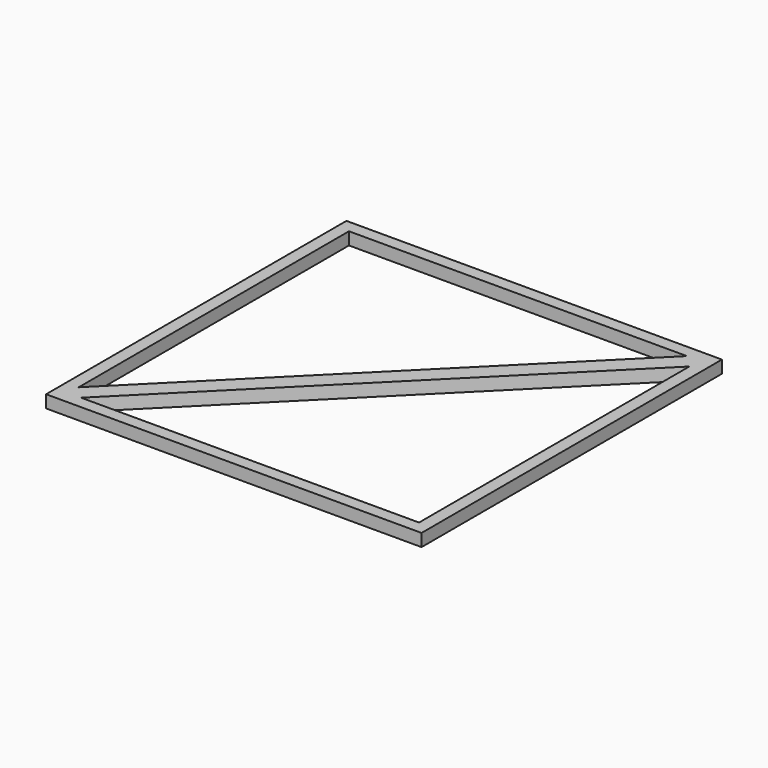
from build123d import *

# Parameters (mm, degrees)
F0_W     = 300
F0_H     = 300
F1_DEPTH = 10


with BuildPart() as f1:
    # F0 (on Top) → F1 (new body)
    with BuildSketch(Plane.XY):
        with Locations((150, 150)):
            Rectangle(F0_W, F0_H)
        Polygon((20, 10), (290, 280), (290, 10), align=None, mode=Mode.SUBTRACT)
        Polygon((10, 290), (280, 290), (10, 20), align=None, mode=Mode.SUBTRACT)
    extrude(amount=F1_DEPTH)


solid = f1.part
